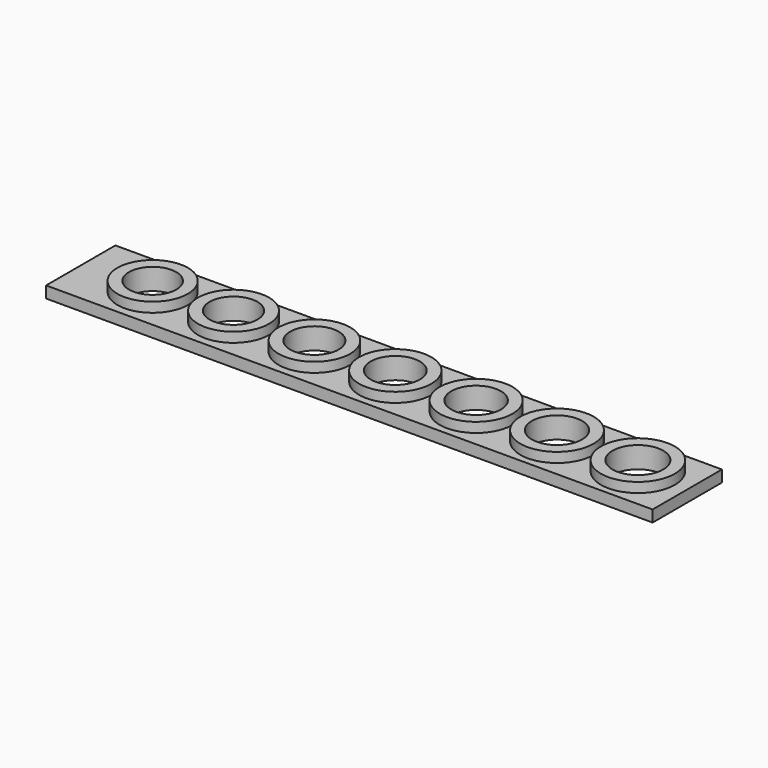
from build123d import *

# Parameters (mm, degrees)
F0_W     = 105
F0_H     = 15
F0_R     = 6.1
F0_R_2   = 6.15
F0_R_3   = 6.2
F0_R_4   = 6.25
F0_R_5   = 6.3
F0_R_6   = 6.35
F0_R_7   = 6.4
F1_DEPTH = 2
F0_R_8   = 4.1
F0_R_9   = 4.15
F0_R_10  = 4.2
F0_R_11  = 4.25
F0_R_12  = 4.3
F0_R_13  = 4.35
F0_R_14  = 4.4
F2_DEPTH = 3.7


with BuildPart() as f1:
    # F0 (on Top) → F1 (new body)
    with BuildSketch(Plane.XY):
        Rectangle(F0_W, F0_H)
        with Locations((-40.048506, 0)):
            Circle(F0_R, mode=Mode.SUBTRACT)
        with Locations((-26.048506, 0)):
            Circle(F0_R_2, mode=Mode.SUBTRACT)
        with Locations((-12.048506, 0)):
            Circle(F0_R_3, mode=Mode.SUBTRACT)
        with Locations((1.951494, 0)):
            Circle(F0_R_4, mode=Mode.SUBTRACT)
        with Locations((15.951494, 0)):
            Circle(F0_R_5, mode=Mode.SUBTRACT)
        with Locations((29.951494, 0)):
            Circle(F0_R_6, mode=Mode.SUBTRACT)
        with Locations((43.951494, 0)):
            Circle(F0_R_7, mode=Mode.SUBTRACT)
    extrude(amount=F1_DEPTH)

    # F0 (on Top) → F2 (join)
    with BuildSketch(Plane.XY):
        with Locations((-40.048506, 0)):
            Circle(F0_R)
        with Locations((-40.048506, 0)):
            Circle(F0_R_8, mode=Mode.SUBTRACT)
        with Locations((-26.048506, 0)):
            Circle(F0_R_2)
        with Locations((-26.048506, 0)):
            Circle(F0_R_9, mode=Mode.SUBTRACT)
        with Locations((-12.048506, 0)):
            Circle(F0_R_3)
        with Locations((-12.048506, 0)):
            Circle(F0_R_10, mode=Mode.SUBTRACT)
        with Locations((1.951494, 0)):
            Circle(F0_R_4)
        with Locations((1.951494, 0)):
            Circle(F0_R_11, mode=Mode.SUBTRACT)
        with Locations((15.951494, 0)):
            Circle(F0_R_5)
        with Locations((15.951494, 0)):
            Circle(F0_R_12, mode=Mode.SUBTRACT)
        with Locations((29.951494, 0)):
            Circle(F0_R_6)
        with Locations((29.951494, 0)):
            Circle(F0_R_13, mode=Mode.SUBTRACT)
        with Locations((43.951494, 0)):
            Circle(F0_R_7)
        with Locations((43.951494, 0)):
            Circle(F0_R_14, mode=Mode.SUBTRACT)
    extrude(amount=F2_DEPTH)


solid = f1.part
